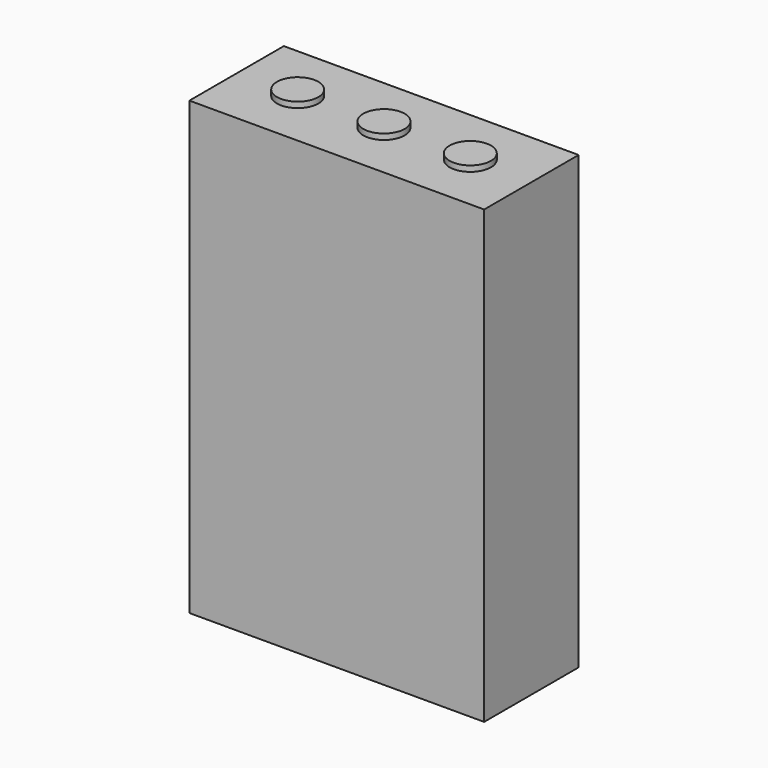
from build123d import *

# Parameters (mm, degrees)
F0_W     = 181
F0_H     = 72.5
F1_DEPTH = 277
F2_R     = 12.7
F3_DEPTH = 3.5


with BuildPart() as f1:
    # F0 (on Top) → F1 (new body)
    with BuildSketch(Plane.XY):
        with Locations((0, 36.25)):
            Rectangle(F0_W, F0_H)
    extrude(amount=F1_DEPTH)


with BuildPart() as f3:
    # F2 (on face) → F3 (new body)
    with BuildSketch(Plane.XY.offset(277)):
        with Locations((-53, 36.25)):
            Circle(F2_R)
        with Locations((53, 36.25)):
            Circle(F2_R)
        with Locations((0, 36.25)):
            Circle(F2_R)
    extrude(amount=F3_DEPTH)


solid = Compound([f1.part, f3.part])
